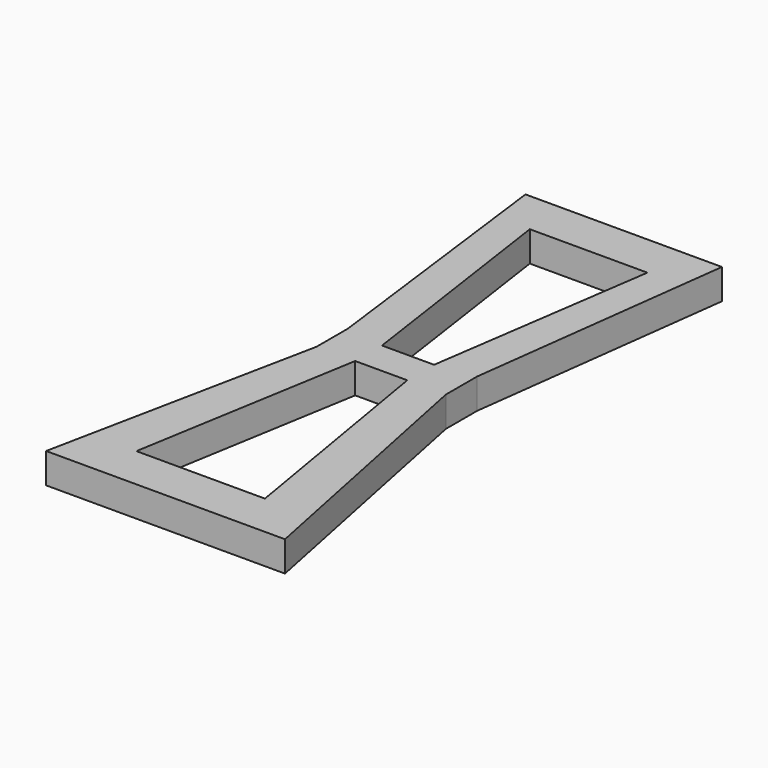
from build123d import *

# Parameters (mm, degrees)
F1_DEPTH = 4.826


with BuildPart() as f1:
    # F0 (on Top) → F1 (new body)
    with BuildSketch(Plane.XY):
        Polygon((15.666263, 45.674991), (-15.666288, 45.674991), (-10.316794, 3.553104), (-10.316794, -2.675001), (-19.054394, -45.675017), (19.054394, -45.675017), (10.316794, -2.675001), (10.316794, 3.553104), align=None)
        Polygon((-10.251338, -38.675031), (-4.155338, -2.675001), (4.155313, -2.675001), (10.251313, -38.675031), align=None, mode=Mode.SUBTRACT)
        Polygon((9.380449, 38.675005), (4.155313, 2.675001), (-4.155338, 2.675001), (-9.380474, 38.675005), align=None, mode=Mode.SUBTRACT)
    extrude(amount=-F1_DEPTH)


solid = f1.part
